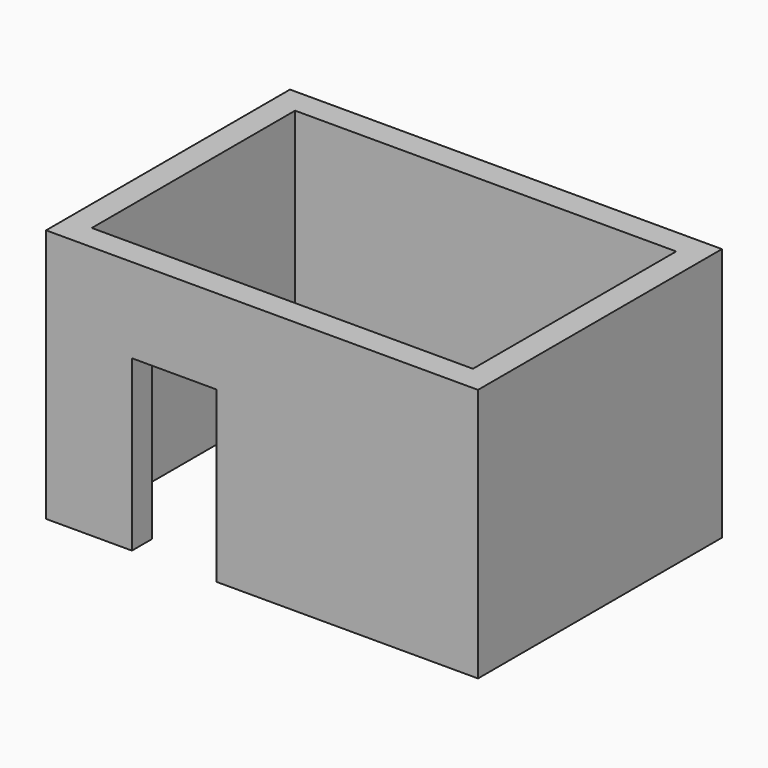
from build123d import *

# Parameters (mm, degrees)
F0_W     = 5100
F0_H     = 3600
F0_W_2   = 4500
F0_H_2   = 3000
F1_DEPTH = 3000
F2_W     = 1000
F2_H     = 2000
F3_DEPTH = 300


with BuildPart() as f1:
    # F0 (on Top) → F1 (new body)
    with BuildSketch(Plane.XY):
        with Locations((243.133116, -210.855583)):
            Rectangle(F0_W, F0_H)
        with Locations((243.133116, -210.855583)):
            Rectangle(F0_W_2, F0_H_2, mode=Mode.SUBTRACT)
    extrude(amount=F1_DEPTH)

    # F2 (on face) → F3 (cut, through all)
    with BuildSketch(Plane.XZ.offset(2010.855583)):
        with Locations((-793.314934, 1000)):
            Rectangle(F2_W, F2_H)
    extrude(amount=-F3_DEPTH, mode=Mode.SUBTRACT)


solid = f1.part
